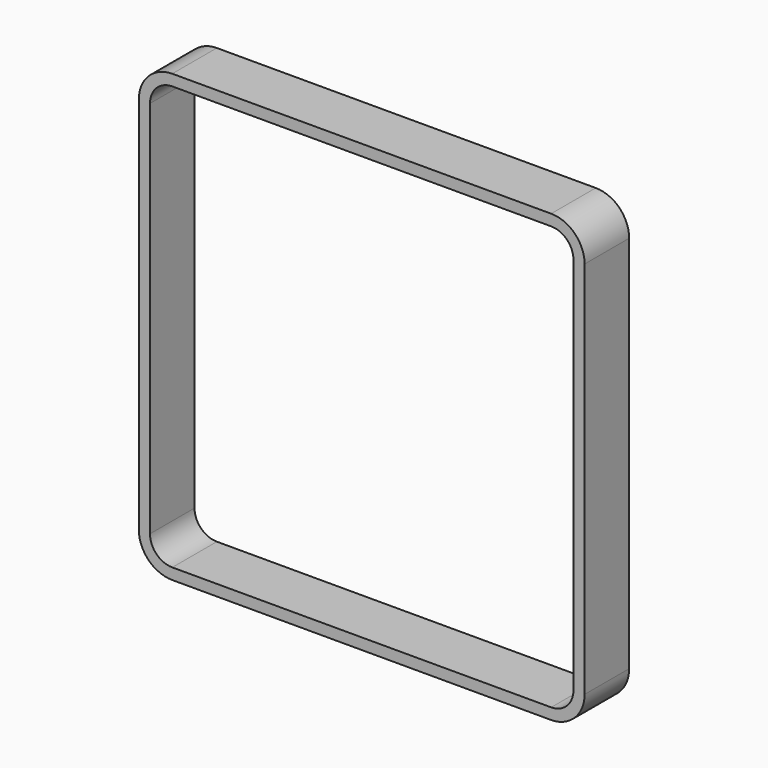
from build123d import *

# Parameters (mm, degrees)
F1_DEPTH = 6.35
F2_T     = -1.27


with BuildPart() as f1:
    # F0 (on Front) → F1 (new body)
    with BuildSketch(Plane.XZ):
        with BuildLine():
            ThreePointArc((0, 3.81), (1.115923, 1.115923), (3.81, 0))
            Line((3.81, 0), (46.99, 0))
            ThreePointArc((46.99, 0), (49.684077, 1.115923), (50.8, 3.81))
            Line((50.8, 3.81), (50.8, 46.99))
            ThreePointArc((50.8, 46.99), (49.684077, 49.684077), (46.99, 50.8))
            Line((46.99, 50.8), (3.81, 50.8))
            ThreePointArc((3.81, 50.8), (1.115923, 49.684077), (0, 46.99))
            Line((0, 46.99), (0, 3.81))
        make_face()
    extrude(amount=F1_DEPTH)

    # F2
    f2_openings = [f1.faces().sort_by_distance(p)[0] for p in [
        (25.4, -6.35, 25.4),
        (25.4, 0, 25.4),
    ]]
    offset(amount=F2_T, openings=f2_openings)


solid = f1.part
